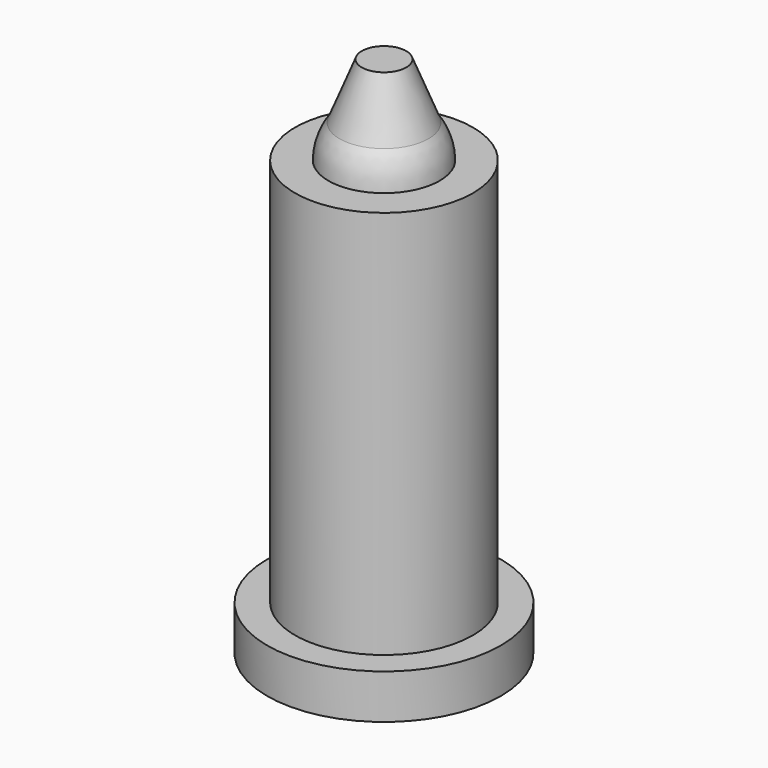
from build123d import *

# Parameters (mm, degrees)
F0_R     = 10.5
F1_DEPTH = 4
F2_R     = 8
F3_DEPTH = 39


with BuildPart() as f1:
    # F0 (on Top) → F1 (new body)
    with BuildSketch(Plane.XY):
        Circle(F0_R)
    extrude(amount=F1_DEPTH)

    # F2 (on Top) → F3 (join)
    with BuildSketch(Plane.XY):
        Circle(F2_R)
    extrude(amount=F3_DEPTH)

    # F4 (on Right) → F5 (revolve)
    with BuildSketch(Plane.YZ):
        with BuildLine():
            Line((4, 42), (0, 42))
            Line((0, 42), (0, 39))
            Line((0, 39), (5, 39))
            ThreePointArc((5, 39), (4.743416, 40.581139), (4, 42))
        make_face()
        with BuildLine():
            Line((0, 47), (0, 44))
            ThreePointArc((0, 44), (2.236068, 43.472136), (4, 42))
            Line((4, 42), (2, 47))
            Line((2, 47), (0, 47))
        make_face()
        with BuildLine():
            ThreePointArc((4, 42), (2.236068, 43.472136), (0, 44))
            Line((0, 44), (0, 42))
            Line((0, 42), (4, 42))
        make_face()
    revolve(axis=Axis((0, 0, 41.5), (0, 0, -1)))


solid = f1.part
